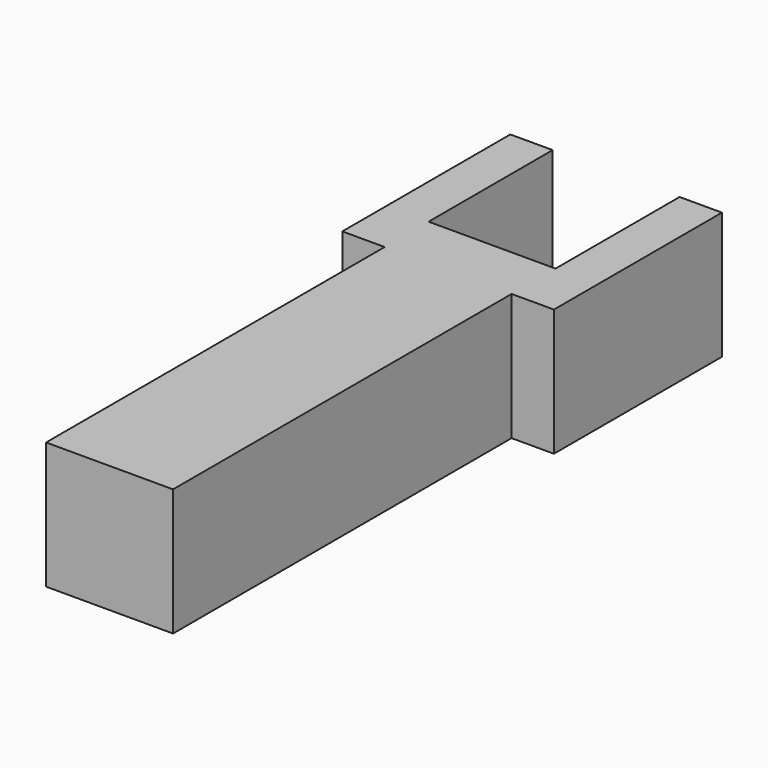
from build123d import *

# Parameters (mm, degrees)
F0_W     = 19.05
F0_H     = 19.05
F1_DEPTH = 63.5
F3_DEPTH = 19.05


with BuildPart() as f1:
    # F0 (on Front) → F1 (new body)
    with BuildSketch(Plane.XZ):
        with Locations((-21.291444, 24.793022)):
            Rectangle(F0_W, F0_H)
    extrude(amount=F1_DEPTH)

    # F2 (on face) → F3 (join)
    with BuildSketch(Plane.XY.offset(34.318022)):
        Polygon((-30.816444, 0), (-11.766444, 0), (-5.416444, 0), (-5.416444, 31.507518), (-11.766444, 31.507518), (-11.766444, 8.236752), (-30.816444, 8.236752), (-30.816444, 31.507518), (-37.166444, 31.507518), (-37.166444, 0), align=None)
    extrude(amount=-F3_DEPTH)


solid = f1.part
